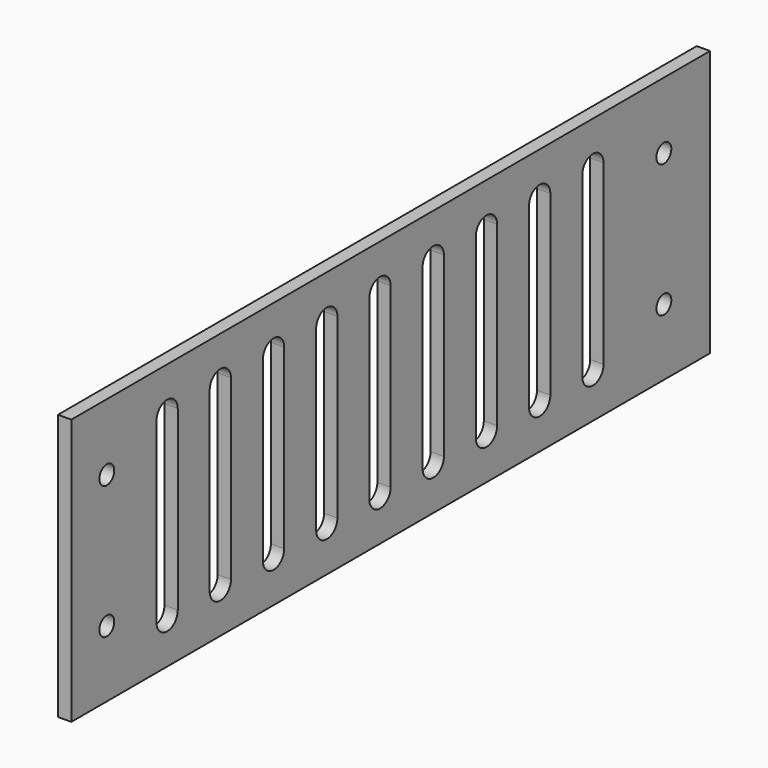
from build123d import *

# Parameters (mm, degrees)
EXTRUDE001_DEPTH  = 51
ARRAY002_Y_COUNT  = 9
ARRAY002_Y_PITCH  = 15
CYLINDER003_R     = 2.1
CYLINDER003_DEPTH = 102
ARRAY001_Y_COUNT  = 2
ARRAY001_Y_PITCH  = 157
ARRAY001_Z_COUNT  = 2
ARRAY001_Z_PITCH  = 30
BOX003_W          = 3
BOX003_H          = 180
BOX003_DEPTH      = 60


with BuildPart() as side_vent_array:
    # Sketch001 → Extrude001 (new body, symmetric)
    with BuildSketch(Plane.YZ):
        with BuildLine():
            Line((-3, 50), (-3, 10))
            ThreePointArc((-3, 10), (0, 7), (3, 10))
            Line((3, 50), (3, 10))
            ThreePointArc((3, 50), (0, 53), (-3, 50))
        make_face()
    extrude(amount=EXTRUDE001_DEPTH, both=True)

    # Array002 Y: side vent array ×9


with BuildPart() as side_vent_array_1:
    add(side_vent_array.part)
    with Locations(*[(0, i * ARRAY002_Y_PITCH, 0) for i in range(1, ARRAY002_Y_COUNT)]):
        add(side_vent_array.part)


with BuildPart() as side_vent_array_2:
    # Array002 placement: moved
    add(side_vent_array_1.part.moved(Location((0, 30, 0))))


with BuildPart() as side_hole_fusion:
    # Cylinder003 → Cylinder003 (new body)
    with BuildSketch(Plane(origin=(-51, 13, 15), x_dir=(0, 0, -1), z_dir=(1, 0, 0))):
        Circle(CYLINDER003_R)
    extrude(amount=CYLINDER003_DEPTH)

    # Array001 Y: side hole fusion ×2


with BuildPart() as side_hole_fusion_1:
    add(side_hole_fusion.part)
    with Locations(*[(0, i * ARRAY001_Y_PITCH, 0) for i in range(1, ARRAY001_Y_COUNT)]):
        add(side_hole_fusion.part)

    # Array001 Z: side hole fusion ×2


with BuildPart() as side_hole_fusion_2:
    add(side_hole_fusion_1.part)
    with Locations(*[(0, 0, i * ARRAY001_Z_PITCH) for i in range(1, ARRAY001_Z_COUNT)]):
        add(side_hole_fusion_1.part)

    # Fusion001: union side vent array
    add(side_vent_array_2.part)


with BuildPart() as psu_side_cut:
    # Box003 → Box003 (new body)
    with BuildSketch(Plane(origin=(-51, 3, 0), x_dir=(1, 0, 0), z_dir=(0, 0, 1))):
        with Locations((1.5, 90)):
            Rectangle(BOX003_W, BOX003_H)
    extrude(amount=BOX003_DEPTH)

    # Cut002: cut side hole fusion
    add(side_hole_fusion_2.part, mode=Mode.SUBTRACT)


solid = psu_side_cut.part
